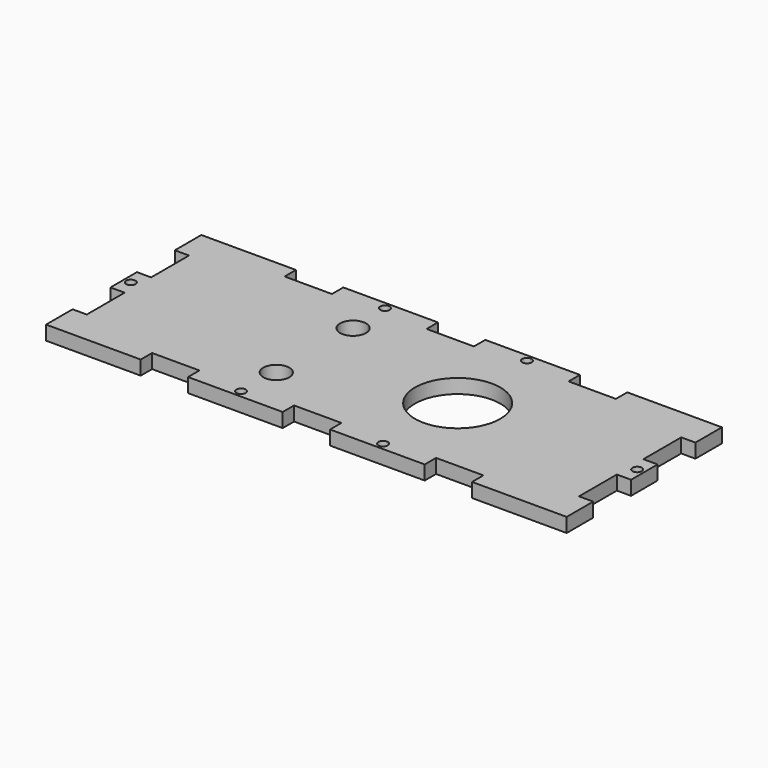
from build123d import *

# Parameters (mm, degrees)
F0_R     = 1
F0_R_2   = 2.75
F0_R_3   = 9
F1_DEPTH = 1.5


with BuildPart() as f1:
    # F0 (on Top) → F1 (new body, symmetric)
    with BuildSketch(Plane.XY):
        Polygon((0, 7), (0, 0), (20, 0), (20, 3), (30, 3), (30, 0), (50, 0), (50, 3), (60, 3), (60, 0), (80, 0), (80, 3), (90, 3), (90, 0), (110, 0), (110, 7), (107, 7), (107, 17), (110, 17), (110, 24), (107, 24), (107, 34), (110, 34), (110, 41), (90, 41), (90, 38), (80, 38), (80, 41), (60, 41), (60, 38), (50, 38), (50, 41), (30, 41), (30, 38), (20, 38), (20, 41), (0, 41), (0, 34), (3, 34), (3, 24), (0, 24), (0, 17), (3, 17), (3, 7), align=None)
        with Locations((40, 1.5)):
            Circle(F0_R, mode=Mode.SUBTRACT)
        with Locations((40.354248, 10.366195)):
            Circle(F0_R_2, mode=Mode.SUBTRACT)
        with Locations((70, 1.5)):
            Circle(F0_R, mode=Mode.SUBTRACT)
        with Locations((1.5, 20.5)):
            Circle(F0_R, mode=Mode.SUBTRACT)
        with Locations((40.354248, 30.633805)):
            Circle(F0_R_2, mode=Mode.SUBTRACT)
        with Locations((40, 39.5)):
            Circle(F0_R, mode=Mode.SUBTRACT)
        with Locations((70.561945, 20.5)):
            Circle(F0_R_3, mode=Mode.SUBTRACT)
        with Locations((108.5, 20.5)):
            Circle(F0_R, mode=Mode.SUBTRACT)
        with Locations((70, 39.5)):
            Circle(F0_R, mode=Mode.SUBTRACT)
    extrude(amount=F1_DEPTH, both=True)


solid = f1.part
